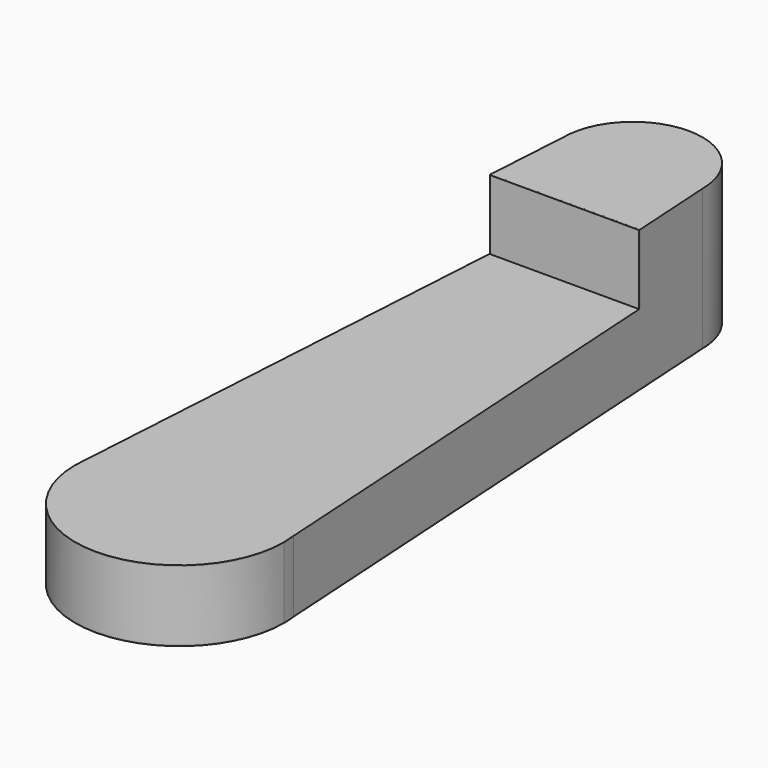
from build123d import *

# Parameters (mm, degrees)
F1_DEPTH = 254
F2_DEPTH = 127
F0_R     = 149.6536088451
F0_R_2   = 96.0123924369
F3_DEPTH = 1.5
F5_DEPTH = 1.5
F7_DEPTH = 1.5
F9_DEPTH = 1.5


with BuildPart() as f1:
    # F0 (on Top) → F1 (new body)
    with BuildSketch(Plane.XY):
        with BuildLine():
            Line((141.4718636423, 45.9567829967), (142.282864794, 32.7457653199))
            ThreePointArc((142.282864794, 32.7457653199), (142.7994969607, 39.3422968588), (142.9718636423, 45.9567829967))
            ThreePointArc((142.9718636423, 45.9567829967), (15.9718636423, 172.9567829967), (-111.0281363577, 45.9567829967))
            ThreePointArc((-111.0281363577, 45.9567829967), (-110.855769676, 39.3422968588), (-110.3391375094, 32.7457653199))
            Line((-110.3391375094, 32.7457653199), (-109.5281363577, 45.9567829967))
            ThreePointArc((-109.5281363577, 45.9567829967), (15.9718636423, 171.4567829967), (141.4718636423, 45.9567829967))
        make_face()
        with BuildLine():
            ThreePointArc((-110.3391375094, 32.7457653199), (-110.855769676, 39.3422968588), (-111.0281363577, 45.9567829967))
            Line((-111.0281363577, 45.9567829967), (-120.5444742258, -109.0621186797))
            Line((-120.5444742258, -109.0621186797), (-119.0444742258, -109.0621186797))
            Line((-119.0444742258, -109.0621186797), (-110.3391375094, 32.7457653199))
        make_face()
        with BuildLine():
            ThreePointArc((142.9718636423, 45.9567829967), (142.7994969607, 39.3422968588), (142.282864794, 32.7457653199))
            Line((142.282864794, 32.7457653199), (150.9882015105, -109.0621186797))
            Line((150.9882015105, -109.0621186797), (152.4825699587, -108.9703820276))
            Line((152.4825699587, -108.9703820276), (142.9718636423, 45.9567829967))
        make_face()
    extrude(amount=F1_DEPTH)

    # F0 (on Top) → F2 (join)
    with BuildSketch(Plane.XY):
        with BuildLine():
            Line((141.4718636423, 45.9567829967), (142.282864794, 32.7457653199))
            ThreePointArc((142.282864794, 32.7457653199), (142.7994969607, 39.3422968588), (142.9718636423, 45.9567829967))
            ThreePointArc((142.9718636423, 45.9567829967), (15.9718636423, 172.9567829967), (-111.0281363577, 45.9567829967))
            ThreePointArc((-111.0281363577, 45.9567829967), (-110.855769676, 39.3422968588), (-110.3391375094, 32.7457653199))
            Line((-110.3391375094, 32.7457653199), (-109.5281363577, 45.9567829967))
            ThreePointArc((-109.5281363577, 45.9567829967), (15.9718636423, 171.4567829967), (141.4718636423, 45.9567829967))
        make_face()
        with BuildLine():
            ThreePointArc((142.9718636423, 45.9567829967), (142.7994969607, 39.3422968588), (142.282864794, 32.7457653199))
            Line((142.282864794, 32.7457653199), (150.9882015105, -109.0621186797))
            Line((150.9882015105, -109.0621186797), (152.4825699587, -108.9703820276))
            Line((152.4825699587, -108.9703820276), (142.9718636423, 45.9567829967))
        make_face()
        with BuildLine():
            Line((152.4825699587, -108.9703820276), (150.9882015105, -109.0621186797))
            Line((150.9882015105, -109.0621186797), (202.6372738553, -950.4133378592))
            ThreePointArc((202.6372738553, -950.4133378592), (203.9836485404, -957.7541899541), (205.0414494826, -965.1421457903))
            Line((205.0414494826, -965.1421457903), (152.4825699587, -108.9703820276))
        make_face()
        with BuildLine():
            ThreePointArc((-110.3391375094, 32.7457653199), (-110.855769676, 39.3422968588), (-111.0281363577, 45.9567829967))
            Line((-111.0281363577, 45.9567829967), (-120.5444742258, -109.0621186797))
            Line((-120.5444742258, -109.0621186797), (-119.0444742258, -109.0621186797))
            Line((-119.0444742258, -109.0621186797), (-110.3391375094, 32.7457653199))
        make_face()
        with BuildLine():
            ThreePointArc((205.0414494826, -965.1421457903), (203.9836485404, -957.7541899541), (202.6372738553, -950.4133378592))
            Line((202.6372738553, -950.4133378592), (203.5527125862, -965.3256190945))
            ThreePointArc((203.5527125862, -965.3256190945), (204.6167422508, -976.8626779432), (204.9718636423, -988.4432554245))
            ThreePointArc((204.9718636423, -988.4432554245), (15.9718636423, -1177.4432554245), (-173.0281363577, -988.4432554245))
            ThreePointArc((-173.0281363577, -988.4432554245), (-172.6730149661, -976.8626779432), (-171.6089853016, -965.3256190945))
            Line((-171.6089853016, -965.3256190945), (-170.6935465706, -950.4133378592))
            ThreePointArc((-170.6935465706, -950.4133378592), (-172.0399212557, -957.7541899541), (-173.0977221979, -965.1421457903))
            Line((-173.0977221979, -965.1421457903), (-174.5281363577, -988.4432554245))
            ThreePointArc((-174.5281363577, -988.4432554245), (15.9718636423, -1178.9432554245), (206.4718636423, -988.4432554245))
            Line((206.4718636423, -988.4432554245), (205.0414494826, -965.1421457903))
        make_face()
        with BuildLine():
            Line((-119.0444742258, -109.0621186797), (-120.5444742258, -109.0621186797))
            Line((-120.5444742258, -109.0621186797), (-173.0977221979, -965.1421457903))
            ThreePointArc((-173.0977221979, -965.1421457903), (-172.0399212557, -957.7541899541), (-170.6935465706, -950.4133378592))
            Line((-170.6935465706, -950.4133378592), (-119.0444742258, -109.0621186797))
        make_face()
        with BuildLine():
            ThreePointArc((206.4718636423, -988.4432554245), (206.113923827, -976.7707685981), (205.0414494826, -965.1421457903))
            Line((205.0414494826, -965.1421457903), (206.4718636423, -988.4432554245))
        make_face()
        with BuildLine():
            Line((-174.5281363577, -988.4432554245), (-173.0977221979, -965.1421457903))
            ThreePointArc((-173.0977221979, -965.1421457903), (-174.1701965424, -976.7707685981), (-174.5281363577, -988.4432554245))
        make_face()
    extrude(amount=F2_DEPTH)

    # F4 (on face) → F5 (join)
    with BuildSketch(Plane.XY.offset(254)):
        with BuildLine():
            Line((-109.5281363577, 45.9567829967), (-119.0444742258, -109.0621186797))
            Line((-119.0444742258, -109.0621186797), (150.9826010685, -108.9708887989))
            Line((150.9826010685, -108.9708887989), (141.4718636423, 45.9567829967))
            ThreePointArc((141.4718636423, 45.9567829967), (15.9718636423, 171.4567829967), (-109.5281363577, 45.9567829967))
        make_face()
        with BuildLine():
            Line((-120.5444742258, -109.0621186797), (-119.0444742258, -109.0621186797))
            Line((-119.0444742258, -109.0621186797), (-109.5281363577, 45.9567829967))
            ThreePointArc((-109.5281363577, 45.9567829967), (15.9718636423, 171.4567829967), (141.4718636423, 45.9567829967))
            Line((141.4718636423, 45.9567829967), (150.9826010685, -108.9708887989))
            Line((150.9826010685, -108.9708887989), (152.4825699587, -108.9703820276))
            Line((152.4825699587, -108.9703820276), (142.9718636423, 45.9567829967))
            ThreePointArc((142.9718636423, 45.9567829967), (15.9718636423, 172.9567829966), (-111.0281363577, 45.9567829967))
            Line((-111.0281363577, 45.9567829967), (-120.5444742258, -109.0621186797))
        make_face()
    extrude(amount=F5_DEPTH)

    # F6 (on face) → F7 (join)
    with BuildSketch(Plane.XY.offset(127)):
        with BuildLine():
            Line((152.4825699587, -108.9703820276), (-120.5444742258, -109.0621186797))
            Line((-120.5444742258, -109.0621186797), (-119.0444742258, -109.0621186797))
            Line((-119.0444742258, -109.0621186797), (-171.6089853016, -965.3256190945))
            ThreePointArc((-171.6089853016, -965.3256190945), (15.9718636423, -1177.4432554245), (203.5527125862, -965.3256190945))
            Line((203.5527125862, -965.3256190945), (150.9882015105, -109.0621186797))
            Line((150.9882015105, -109.0621186797), (152.4825699587, -108.9703820276))
        make_face()
        with BuildLine():
            Line((-119.0444742258, -109.0621186797), (-120.5444742258, -109.0621186797))
            Line((-120.5444742258, -109.0621186797), (-173.0977221979, -965.1421457903))
            ThreePointArc((-173.0977221979, -965.1421457903), (15.9718636423, -1178.9432554245), (205.0414494826, -965.1421457903))
            Line((205.0414494826, -965.1421457903), (152.4825699587, -108.9703820276))
            Line((152.4825699587, -108.9703820276), (150.9882015105, -109.0621186797))
            Line((150.9882015105, -109.0621186797), (203.5527125862, -965.3256190945))
            ThreePointArc((203.5527125862, -965.3256190945), (15.9718636423, -1177.4432554245), (-171.6089853016, -965.3256190945))
            Line((-171.6089853016, -965.3256190945), (-119.0444742258, -109.0621186797))
        make_face()
    extrude(amount=F7_DEPTH)


with BuildPart() as f3:
    # F0 (on Top) → F3 (new body)
    with BuildSketch(Plane.XY):
        with BuildLine():
            Line((141.4718636423, 45.9567829967), (142.282864794, 32.7457653199))
            ThreePointArc((142.282864794, 32.7457653199), (142.7994969607, 39.3422968588), (142.9718636423, 45.9567829967))
            ThreePointArc((142.9718636423, 45.9567829967), (15.9718636423, 172.9567829967), (-111.0281363577, 45.9567829967))
            ThreePointArc((-111.0281363577, 45.9567829967), (-110.855769676, 39.3422968588), (-110.3391375094, 32.7457653199))
            Line((-110.3391375094, 32.7457653199), (-109.5281363577, 45.9567829967))
            ThreePointArc((-109.5281363577, 45.9567829967), (15.9718636423, 171.4567829967), (141.4718636423, 45.9567829967))
        make_face()
        with BuildLine():
            ThreePointArc((142.9718636423, 45.9567829967), (142.7994969607, 39.3422968588), (142.282864794, 32.7457653199))
            Line((142.282864794, 32.7457653199), (150.9882015105, -109.0621186797))
            Line((150.9882015105, -109.0621186797), (152.4825699587, -108.9703820276))
            Line((152.4825699587, -108.9703820276), (142.9718636423, 45.9567829967))
        make_face()
        with BuildLine():
            Line((152.4825699587, -108.9703820276), (150.9882015105, -109.0621186797))
            Line((150.9882015105, -109.0621186797), (202.6372738553, -950.4133378592))
            ThreePointArc((202.6372738553, -950.4133378592), (203.9836485404, -957.7541899541), (205.0414494826, -965.1421457903))
            Line((205.0414494826, -965.1421457903), (152.4825699587, -108.9703820276))
        make_face()
        with BuildLine():
            ThreePointArc((-110.3391375094, 32.7457653199), (-110.855769676, 39.3422968588), (-111.0281363577, 45.9567829967))
            Line((-111.0281363577, 45.9567829967), (-120.5444742258, -109.0621186797))
            Line((-120.5444742258, -109.0621186797), (-119.0444742258, -109.0621186797))
            Line((-119.0444742258, -109.0621186797), (-110.3391375094, 32.7457653199))
        make_face()
        with BuildLine():
            ThreePointArc((205.0414494826, -965.1421457903), (203.9836485404, -957.7541899541), (202.6372738553, -950.4133378592))
            Line((202.6372738553, -950.4133378592), (203.5527125862, -965.3256190945))
            ThreePointArc((203.5527125862, -965.3256190945), (204.6167422508, -976.8626779432), (204.9718636423, -988.4432554245))
            ThreePointArc((204.9718636423, -988.4432554245), (15.9718636423, -1177.4432554245), (-173.0281363577, -988.4432554245))
            ThreePointArc((-173.0281363577, -988.4432554245), (-172.6730149661, -976.8626779432), (-171.6089853016, -965.3256190945))
            Line((-171.6089853016, -965.3256190945), (-170.6935465706, -950.4133378592))
            ThreePointArc((-170.6935465706, -950.4133378592), (-172.0399212557, -957.7541899541), (-173.0977221979, -965.1421457903))
            Line((-173.0977221979, -965.1421457903), (-174.5281363577, -988.4432554245))
            ThreePointArc((-174.5281363577, -988.4432554245), (15.9718636423, -1178.9432554245), (206.4718636423, -988.4432554245))
            Line((206.4718636423, -988.4432554245), (205.0414494826, -965.1421457903))
        make_face()
        with BuildLine():
            Line((-119.0444742258, -109.0621186797), (-120.5444742258, -109.0621186797))
            Line((-120.5444742258, -109.0621186797), (-173.0977221979, -965.1421457903))
            ThreePointArc((-173.0977221979, -965.1421457903), (-172.0399212557, -957.7541899541), (-170.6935465706, -950.4133378592))
            Line((-170.6935465706, -950.4133378592), (-119.0444742258, -109.0621186797))
        make_face()
        with BuildLine():
            ThreePointArc((206.4718636423, -988.4432554245), (206.113923827, -976.7707685981), (205.0414494826, -965.1421457903))
            Line((205.0414494826, -965.1421457903), (206.4718636423, -988.4432554245))
        make_face()
        with BuildLine():
            Line((-174.5281363577, -988.4432554245), (-173.0977221979, -965.1421457903))
            ThreePointArc((-173.0977221979, -965.1421457903), (-174.1701965424, -976.7707685981), (-174.5281363577, -988.4432554245))
        make_face()
        with BuildLine():
            Line((150.9882015105, -109.0621186797), (142.282864794, 32.7457653199))
            Line((142.282864794, 32.7457653199), (141.4718636423, 45.9567829967))
            ThreePointArc((141.4718636423, 45.9567829967), (15.9718636423, 171.4567829967), (-109.5281363577, 45.9567829967))
            Line((-109.5281363577, 45.9567829967), (-110.3391375094, 32.7457653199))
            Line((-110.3391375094, 32.7457653199), (-119.0444742258, -109.0621186797))
            Line((-119.0444742258, -109.0621186797), (-170.6935465706, -950.4133378592))
            Line((-170.6935465706, -950.4133378592), (-171.6089853016, -965.3256190945))
            Line((-171.6089853016, -965.3256190945), (-173.0281363577, -988.4432554245))
            ThreePointArc((-173.0281363577, -988.4432554245), (15.9718636423, -1177.4432554245), (204.9718636423, -988.4432554245))
            Line((204.9718636423, -988.4432554245), (203.5527125862, -965.3256190945))
            Line((203.5527125862, -965.3256190945), (202.6372738553, -950.4133378592))
            Line((202.6372738553, -950.4133378592), (150.9882015105, -109.0621186797))
        make_face()
        with Locations((15.9718636423, -988.4432554245)):
            Circle(F0_R, mode=Mode.SUBTRACT)
        with Locations((15.9718636423, 45.9567829967)):
            Circle(F0_R_2, mode=Mode.SUBTRACT)
        with Locations((15.9718636423, -988.4432554245)):
            Circle(F0_R)
        with Locations((15.9718636423, 45.9567829967)):
            Circle(F0_R_2)
    extrude(amount=-F3_DEPTH)


with BuildPart() as f9:
    # F8 (on face) → F9 (new body)
    with BuildSketch(Plane.XZ.offset(109.0621186797)):
        Polygon((152.4824947119, 255.5), (-119.0444742258, 255.5), (-119.0444742258, 254), (-119.0444742258, 128.5), (152.4824947119, 128.5), align=None)
    extrude(amount=F9_DEPTH)


solid = Compound([f1.part, f3.part, f9.part])
